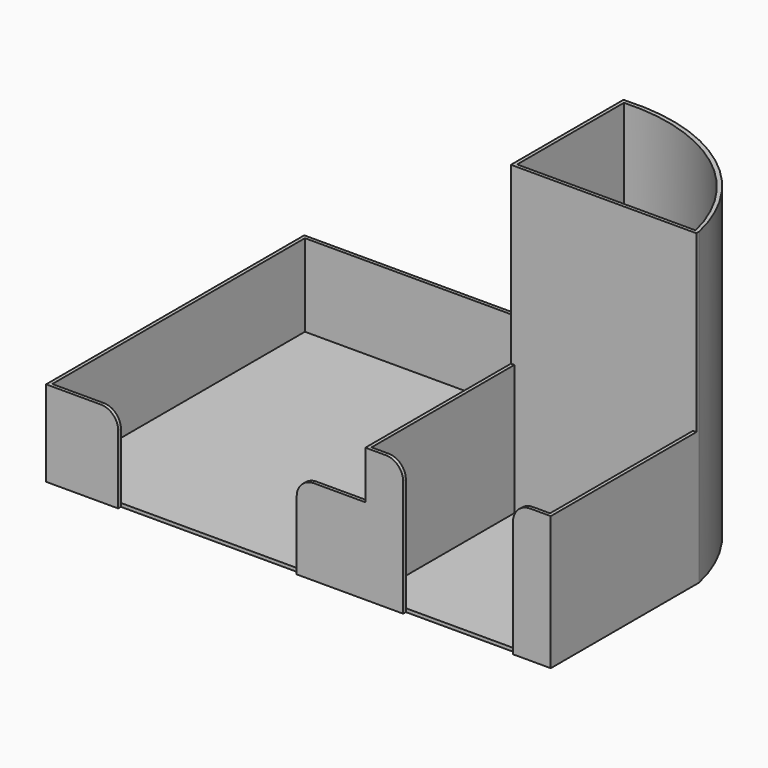
from build123d import *

# Parameters (mm, degrees)
F1_DEPTH = 90
F0_W     = 10
F0_H     = 1
F2_DEPTH = 39
F0_W_2   = 20
F3_DEPTH = 25
F4_DEPTH = 1
F5_R     = 5
F6_R     = 5
F7_R     = 5
F8_R     = 5


with BuildPart() as f1:
    # F0 (on Top) → F1 (new body)
    with BuildSketch(Plane.XY):
        with BuildLine():
            ThreePointArc((58.273254, 16.21197), (39.155261, 45.99313), (5.273254, 56.21197))
            Line((5.273254, 56.21197), (5.273254, 55.117212))
            ThreePointArc((5.273254, 55.117212), (38.296792, 45.052118), (57.273254, 16.21197))
            Line((57.273254, 16.21197), (58.273254, 16.21197))
        make_face()
        Polygon((5.273254, 16.21197), (5.273254, 15.21197), (57.273254, 15.21197), (58.273254, 15.21197), (58.273254, 16.21197), (57.273254, 16.21197), align=None)
        Polygon((4.273254, 56.21197), (4.273254, 55.21197), (4.273254, 15.21197), (5.273254, 15.21197), (5.273254, 16.21197), (5.273254, 55.117212), (5.273254, 56.21197), align=None)
    extrude(amount=F1_DEPTH)

    # F0 (on Top) → F2 (join)
    with BuildSketch(Plane.XY):
        Polygon((58.273254, 15.21197), (57.273254, 15.21197), (57.273254, -36.78803), (47.273254, -36.78803), (47.273254, -37.78803), (58.273254, -37.78803), align=None)
        Polygon((5.273254, 15.21197), (4.273254, 15.21197), (4.273254, -36.78803), (4.273254, -37.78803), (5.273254, -37.78803), (5.273254, -36.78803), align=None)
        with Locations((10.273254, -37.28803)):
            Rectangle(F0_W, F0_H)
    extrude(amount=F2_DEPTH)

    # F0 (on Top) → F3 (join)
    with BuildSketch(Plane.XY):
        Polygon((-87.726746, -36.78803), (-87.726746, 55.21197), (4.273254, 55.21197), (4.273254, 56.21197), (-88.726746, 56.21197), (-88.726746, -37.78803), (-67.726746, -37.78803), (-67.726746, -36.78803), align=None)
        with Locations((-5.726746, -37.28803)):
            Rectangle(F0_W_2, F0_H)
    extrude(amount=F3_DEPTH)

    # F0 (on Top) → F4 (join)
    with BuildSketch(Plane.XY):
        Polygon((4.273254, 55.21197), (-87.726746, 55.21197), (-87.726746, -36.78803), (-67.726746, -36.78803), (-15.726746, -36.78803), (4.273254, -36.78803), (4.273254, 15.21197), align=None)
        Polygon((57.273254, 15.21197), (5.273254, 15.21197), (5.273254, -36.78803), (15.273254, -36.78803), (47.273254, -36.78803), (57.273254, -36.78803), align=None)
        with BuildLine():
            Line((5.273254, 55.117212), (5.273254, 16.21197))
            Line((5.273254, 16.21197), (57.273254, 16.21197))
            ThreePointArc((57.273254, 16.21197), (38.296792, 45.052118), (5.273254, 55.117212))
        make_face()
    extrude(amount=F4_DEPTH)

    # F5
    f5_edges = [f1.edges().sort_by_distance(p)[0] for p in [
        (-67.726746, -37.28803, 25),
    ]]
    fillet(f5_edges, radius=F5_R)

    # F6
    f6_edges = [f1.edges().sort_by_distance(p)[0] for p in [
        (-15.726746, -37.28803, 25),
    ]]
    fillet(f6_edges, radius=F6_R)

    # F7
    f7_edges = [f1.edges().sort_by_distance(p)[0] for p in [
        (15.273254, -37.28803, 39),
    ]]
    fillet(f7_edges, radius=F7_R)

    # F8
    f8_edges = [f1.edges().sort_by_distance(p)[0] for p in [
        (47.273254, -37.28803, 39),
    ]]
    fillet(f8_edges, radius=F8_R)


solid = f1.part
